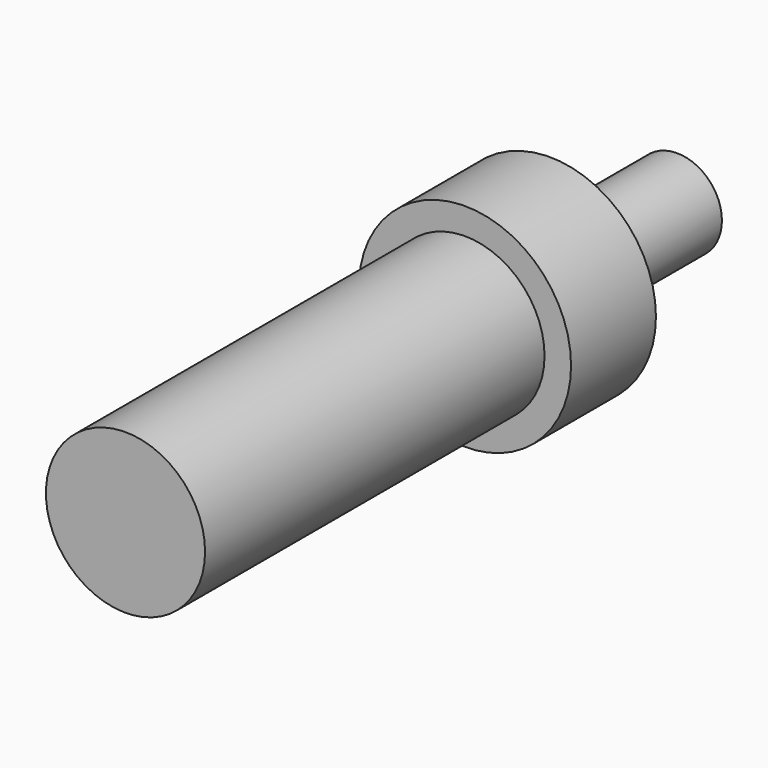
from build123d import *

# Parameters (mm, degrees)
F0_R     = 12.7
F0_R_2   = 5.3594
F1_DEPTH = 12.7
F2_DEPTH = 19.05
F3_R     = 9.525
F4_DEPTH = 50.8


with BuildPart() as f1:
    # F0 (on Front) → F1 (new body)
    with BuildSketch(Plane.XZ):
        Circle(F0_R)
        Circle(F0_R_2, mode=Mode.SUBTRACT)
        Circle(F0_R_2)
    extrude(amount=F1_DEPTH)

    # F0 (on Front) → F2 (join)
    with BuildSketch(Plane.XZ):
        Circle(F0_R_2)
    extrude(amount=-F2_DEPTH)

    # F3 (on face) → F4 (join)
    with BuildSketch(Plane.XZ.offset(12.7)):
        Circle(F3_R)
    extrude(amount=F4_DEPTH)


solid = f1.part
